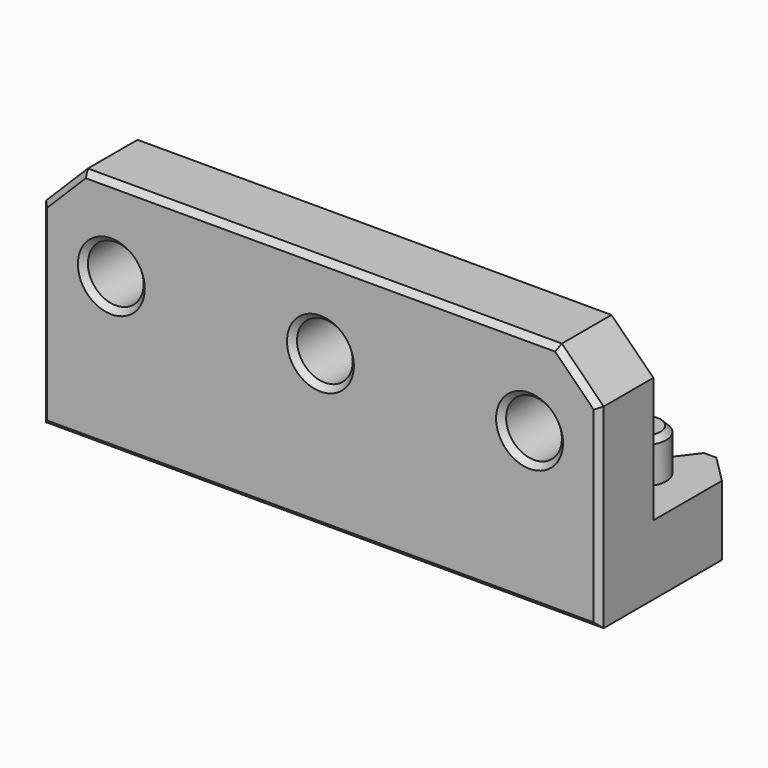
from build123d import *

# Parameters (mm, degrees)
CYLINDER030_R         = 20.9
CYLINDER030_DEPTH     = 6
BOX007_W              = 40
BOX007_H              = 13
BOX007_DEPTH          = 5
CHAMFER009003002_SIZE = 2
CYLINDER026_R         = 2
CYLINDER026_DEPTH     = 10
CYLINDER029_R         = 2
CYLINDER029_DEPTH     = 10
CYLINDER027_R         = 2
CYLINDER027_DEPTH     = 10
BOX006_W              = 40
BOX006_H              = 4.85
BOX006_DEPTH          = 17
CHAMFER009003006_SIZE = 3
CYLINDER033_R         = 1.6
CYLINDER033_DEPTH     = 3
CYLINDER031_R         = 1.6
CYLINDER031_DEPTH     = 3
CHAMFER009003005_SIZE = 0.4
CHAMFER009003007_SIZE = 0.4


with BuildPart() as cylinder030:
    # Cylinder030 → Cylinder030 (new body)
    with BuildSketch(Plane.XY):
        Circle(CYLINDER030_R)
    extrude(amount=CYLINDER030_DEPTH)


with BuildPart() as cut004003006006002:
    # Box007 → Box007 (new body)
    with BuildSketch(Plane(origin=(-20, -25, 0), x_dir=(1, 0, 0), z_dir=(0, 0, 1))):
        with Locations((20, 6.5)):
            Rectangle(BOX007_W, BOX007_H)
    extrude(amount=BOX007_DEPTH)

    # Chamfer009003002
    chamfer009003002_edges = [cut004003006006002.edges().sort_by_distance(p)[0] for p in [
        (-20, -12, 2.5),
        (20, -12, 2.5),
    ]]
    chamfer(chamfer009003002_edges, length=CHAMFER009003002_SIZE)

    # Cut004003006006002: cut Cylinder030
    add(cylinder030.part, mode=Mode.SUBTRACT)


with BuildPart() as cylinder026:
    # Cylinder026 → Cylinder026 (new body)
    with BuildSketch(Plane(origin=(0, -20, 11), x_dir=(1, 0, 0), z_dir=(0, -1, 0))):
        Circle(CYLINDER026_R)
    extrude(amount=CYLINDER026_DEPTH)


with BuildPart() as cylinder029:
    # Cylinder029 → Cylinder029 (new body)
    with BuildSketch(Plane(origin=(15, -20, 11), x_dir=(1, 0, 0), z_dir=(0, -1, 0))):
        Circle(CYLINDER029_R)
    extrude(amount=CYLINDER029_DEPTH)


with BuildPart() as fusion001028:
    # Cylinder027 → Cylinder027 (new body)
    with BuildSketch(Plane(origin=(-15, -20, 11), x_dir=(1, 0, 0), z_dir=(0, -1, 0))):
        Circle(CYLINDER027_R)
    extrude(amount=CYLINDER027_DEPTH)

    # Fusion001028: union Cylinder026, Cylinder029
    add(cylinder026.part)
    add(cylinder029.part)


with BuildPart() as chamfer009003006:
    # Box006 → Box006 (new body)
    with BuildSketch(Plane(origin=(-20, -25, 0), x_dir=(1, 0, 0), z_dir=(0, 0, 1))):
        with Locations((20, 2.425)):
            Rectangle(BOX006_W, BOX006_H)
    extrude(amount=BOX006_DEPTH)

    # Cut004003006006003: cut Fusion001028
    add(fusion001028.part, mode=Mode.SUBTRACT)

    # Chamfer009003006
    chamfer009003006_edges = [chamfer009003006.edges().sort_by_distance(p)[0] for p in [
        (-20, -22.575, 17),
        (20, -22.575, 17),
    ]]
    chamfer(chamfer009003006_edges, length=CHAMFER009003006_SIZE)


with BuildPart() as cylinder033:
    # Cylinder033 → Cylinder033 (new body)
    with BuildSketch(Plane(origin=(16, -16, 5), x_dir=(1, 0, 0), z_dir=(0, 0, 1))):
        Circle(CYLINDER033_R)
    extrude(amount=CYLINDER033_DEPTH)


with BuildPart() as chamfer009003007:
    # Cylinder031 → Cylinder031 (new body)
    with BuildSketch(Plane(origin=(-16, -16, 5), x_dir=(1, 0, 0), z_dir=(0, 0, 1))):
        Circle(CYLINDER031_R)
    extrude(amount=CYLINDER031_DEPTH)

    # Fusion001027: union Cylinder033
    add(cylinder033.part)

    # Chamfer009003005
    chamfer009003005_edges = [chamfer009003007.edges().sort_by_distance(p)[0] for p in [
        (-17.6, -16, 8),
        (14.4, -16, 8),
    ]]
    chamfer(chamfer009003005_edges, length=CHAMFER009003005_SIZE)

    # Fusion001029: union Cut004003006006002, Chamfer009003006
    add(cut004003006006002.part)
    add(chamfer009003006.part)

    # Chamfer009003007
    chamfer009003007_edges = [chamfer009003007.edges().sort_by_distance(p)[0] for p in [
        (-18.5, -25, 15.5),
        (-17, -20.15, 11),
        (-2, -20.15, 11),
        (13, -20.15, 11),
        (18.5, -25, 15.5),
        (0, -25, 17),
        (-17, -25, 11),
        (-2, -25, 11),
        (13, -25, 11),
        (-20, -25, 7),
        (0, -25, 0),
        (20, -25, 7),
    ]]
    chamfer(chamfer009003007_edges, length=CHAMFER009003007_SIZE)


solid = chamfer009003007.part
